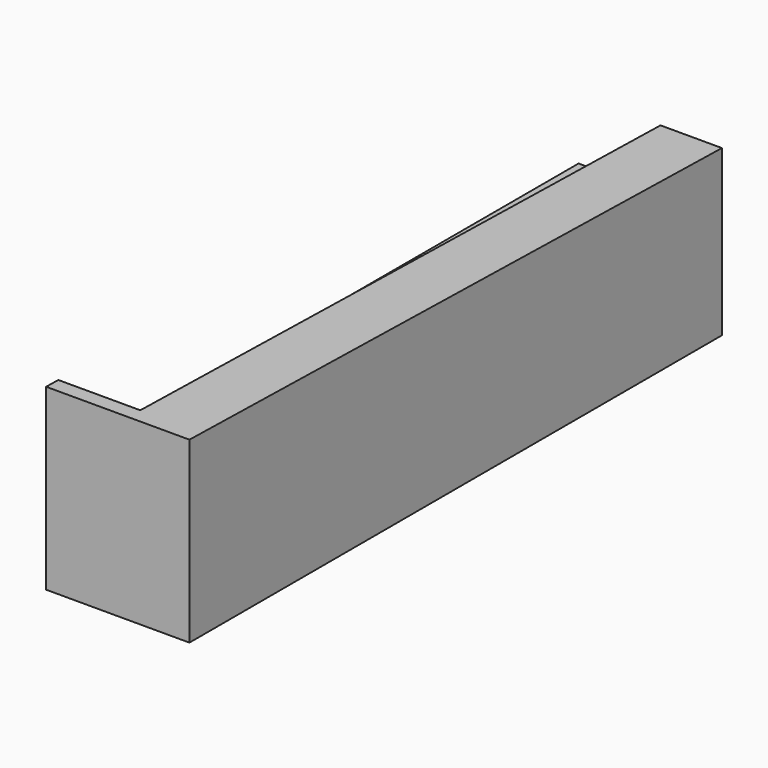
from build123d import *

# Parameters (mm, degrees)
F1_DEPTH = 1400
F3_DEPTH = 800
F4_R     = 75
F5_DEPTH = 100


with BuildPart() as f1:
    # F0 (on Right) → F1 (new body)
    with BuildSketch(Plane.YZ):
        Polygon((0, 1745), (0, 0), (6500, 0), (6500, 1610), align=None)
    extrude(amount=F1_DEPTH)

    # F2 (on Right) → F3 (cut)
    with BuildSketch(Plane.YZ):
        Polygon((150, 1022), (6500, 1022), (6500, 1610), (150, 1741.8846153846), align=None)
    extrude(amount=F3_DEPTH, mode=Mode.SUBTRACT)

    # F4 (on face) → F5 (cut)
    with BuildSketch(Plane(origin=(0, 0, 0), x_dir=(1, 0, 0), z_dir=(0, 0, -1))):
        with Locations((700, -1300)):
            Circle(F4_R)
        with Locations((700, -5000)):
            Circle(F4_R)
    extrude(amount=-F5_DEPTH, mode=Mode.SUBTRACT)


solid = f1.part
